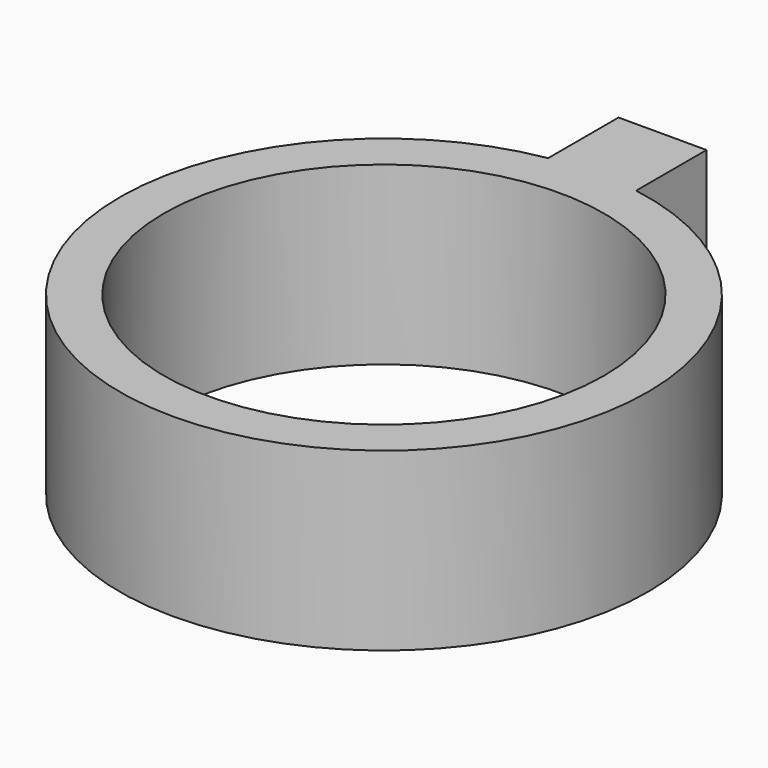
from build123d import *

# Parameters (mm, degrees)
SKETCH_R  = 5
PAD_DEPTH = 4


with BuildPart() as part:
    # Sketch → Pad (new body)
    with BuildSketch(Plane.XY):
        with BuildLine():
            ThreePointArc((-1, 5.91608), (0, -6), (1, 5.91608))
            Line((1, 5.91608), (1, 7.91608))
            Line((1, 7.91608), (-1, 7.91608))
            Line((-1, 7.91608), (-1, 5.91608))
        make_face()
        Circle(SKETCH_R, mode=Mode.SUBTRACT)
    extrude(amount=PAD_DEPTH)


solid = part.part
